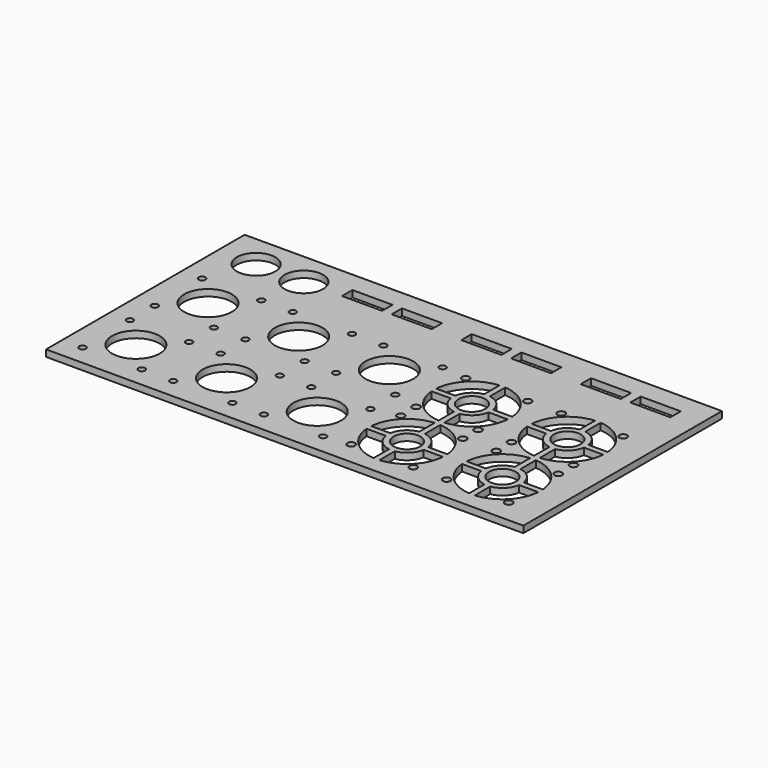
from build123d import *

# Parameters (mm, degrees)
SKETCH_W               = 250
SKETCH_H               = 130
PAD_DEPTH              = 3.5
SKETCH001_R            = 12.5
SKETCH001_R_2          = 1.75
POCKET_DEPTH           = 3.501
LINEARPATTERN_COUNT    = 3
LINEARPATTERN_PITCH    = 47.5
SKETCH002_R            = 2
POCKET001_DEPTH        = 3.501
POCKET002_DEPTH        = 3.501
LINEARPATTERN001_COUNT = 2
LINEARPATTERN001_PITCH = 42.5
SKETCH004_R            = 7
POCKET003_DEPTH        = 3.501
SKETCH005_R            = 10.1
POCKET004_DEPTH        = 3.501
SKETCH006_W            = 21
SKETCH006_H            = 6.8
POCKET005_DEPTH        = 3.501
LINEARPATTERN002_COUNT = 3
LINEARPATTERN002_PITCH = 62.5
SKETCH007_W            = 21
SKETCH007_H            = 3.5
PAD001_DEPTH           = 6
LINEARPATTERN003_COUNT = 3
LINEARPATTERN003_PITCH = 62.5
SKETCH008_R            = 1.6
POCKET006_DEPTH        = 5
LINEARPATTERN004_COUNT = 3
LINEARPATTERN004_PITCH = 62.5
SKETCH009_R            = 7
SKETCH009_R_2          = 2
POCKET007_DEPTH        = 9.501
LINEARPATTERN005_COUNT = 2
LINEARPATTERN005_PITCH = 42.5


with BuildPart() as part:
    # Sketch → Pad (new body)
    with BuildSketch(Plane.XY):
        with Locations((125, 65)):
            Rectangle(SKETCH_W, SKETCH_H)
    extrude(amount=PAD_DEPTH)

    # Sketch001 → Pocket (cut, through all)
    with BuildSketch(Plane.XY.offset(3.5)):
        with Locations((26.125, 73.375)):
            Circle(SKETCH001_R)
        with Locations((26.125, 26.125)):
            Circle(SKETCH001_R)
        with Locations((10.625, 88.875)):
            Circle(SKETCH001_R_2)
        with Locations((41.625, 88.875)):
            Circle(SKETCH001_R_2)
        with Locations((41.625, 57.875)):
            Circle(SKETCH001_R_2)
        with Locations((10.625, 57.875)):
            Circle(SKETCH001_R_2)
        with Locations((41.625, 41.625)):
            Circle(SKETCH001_R_2)
        with Locations((10.625, 41.625)):
            Circle(SKETCH001_R_2)
        with Locations((10.625, 10.625)):
            Circle(SKETCH001_R_2)
        with Locations((41.625, 10.625)):
            Circle(SKETCH001_R_2)
    pocket = extrude(amount=-POCKET_DEPTH, mode=Mode.SUBTRACT)

    # LinearPattern: Pocket ×3
    with Locations(*[(i * LINEARPATTERN_PITCH, 0, 0) for i in range(1, LINEARPATTERN_COUNT)]):
        add(pocket, mode=Mode.SUBTRACT)

    # Sketch002 → Pocket001 (cut, through all)
    with BuildSketch(Plane.XY.offset(3.5)):
        with Locations((150, 87.25)):
            Circle(SKETCH002_R)
        with Locations((150, 54.75)):
            Circle(SKETCH002_R)
        with Locations((182.5, 54.75)):
            Circle(SKETCH002_R)
        with Locations((182.5, 87.25)):
            Circle(SKETCH002_R)
        with Locations((150, 44.75)):
            Circle(SKETCH002_R)
        with Locations((182.5, 44.75)):
            Circle(SKETCH002_R)
        with Locations((182.5, 12.25)):
            Circle(SKETCH002_R)
        with Locations((150, 12.25)):
            Circle(SKETCH002_R)
    extrude(amount=-POCKET001_DEPTH, mode=Mode.SUBTRACT)

    # Sketch003 → Pocket002 (cut, through all)
    with BuildSketch(Plane.XY.offset(3.5)):
        with BuildLine():
            Line((167.750256, 51.056349), (167.750256, 61.113179))
            ThreePointArc((167.750256, 61.113179), (173.321159, 63.929024), (176.13686, 69.5))
            Line((176.13686, 69.5), (186.193671, 69.5))
            ThreePointArc((186.193671, 69.5), (180.392226, 56.857955), (167.750256, 51.056349))
        make_face()
        with BuildLine():
            Line((164.75, 80.88686), (164.75, 90.943671))
            ThreePointArc((164.75, 90.943671), (152.107864, 85.142136), (146.306329, 72.5))
            Line((146.306329, 72.5), (156.36314, 72.5))
            ThreePointArc((156.36314, 72.5), (159.178932, 78.071068), (164.75, 80.88686))
        make_face()
        with BuildLine():
            Line((167.750256, 90.943651), (167.750256, 80.886821))
            ThreePointArc((167.750256, 80.886821), (173.321159, 78.070976), (176.13686, 72.5))
            Line((176.13686, 72.5), (186.193671, 72.5))
            ThreePointArc((186.193671, 72.5), (180.392226, 85.142045), (167.750256, 90.943651))
        make_face()
        with BuildLine():
            Line((156.36314, 69.5), (146.306329, 69.5))
            ThreePointArc((146.306329, 69.5), (152.107864, 56.857864), (164.75, 51.056329))
            Line((164.75, 51.056329), (164.75, 61.11314))
            ThreePointArc((164.75, 61.11314), (159.178932, 63.928932), (156.36314, 69.5))
        make_face()
    pocket002 = extrude(amount=-POCKET002_DEPTH, mode=Mode.SUBTRACT)

    # LinearPattern001: Pocket002 ×2
    with Locations(*[(0, -i * LINEARPATTERN001_PITCH, 0) for i in range(1, LINEARPATTERN001_COUNT)]):
        add(pocket002, mode=Mode.SUBTRACT)

    # Sketch004 → Pocket003 (cut, through all)
    with BuildSketch(Plane.XY.offset(3.5)):
        with Locations((166.25, 71)):
            Circle(SKETCH004_R)
        with Locations((166.25, 28.5)):
            Circle(SKETCH004_R)
    extrude(amount=-POCKET003_DEPTH, mode=Mode.SUBTRACT)

    # Sketch005 → Pocket004 (cut, through all)
    with BuildSketch(Plane.XY.offset(3.5)):
        with Locations((20, 112.5)):
            Circle(SKETCH005_R)
        with Locations((45, 112.5)):
            Circle(SKETCH005_R)
    extrude(amount=-POCKET004_DEPTH, mode=Mode.SUBTRACT)

    # Sketch006 → Pocket005 (cut, through all)
    with BuildSketch(Plane.XY.offset(3.5)):
        with Locations((75.5, 115.9)):
            Rectangle(SKETCH006_W, SKETCH006_H)
        with Locations((101.5, 115.9)):
            Rectangle(SKETCH006_W, SKETCH006_H)
    pocket005 = extrude(amount=-POCKET005_DEPTH, mode=Mode.SUBTRACT)

    # LinearPattern002: Pocket005 ×3
    with Locations(*[(i * LINEARPATTERN002_PITCH, 0, 0) for i in range(1, LINEARPATTERN002_COUNT)]):
        add(pocket005, mode=Mode.SUBTRACT)

    # Sketch007 → Pad001 (new body)
    with BuildSketch(Plane(origin=(0, 0, 0), x_dir=(1, 0, 0), z_dir=(0, 0, -1))):
        with Locations((75.5, -110.75)):
            Rectangle(SKETCH007_W, SKETCH007_H)
        with Locations((101.5, -110.75)):
            Rectangle(SKETCH007_W, SKETCH007_H)
    pad001 = extrude(amount=PAD001_DEPTH)

    # LinearPattern003: Pad001 ×3
    with Locations(*[(i * LINEARPATTERN003_PITCH, 0, 0) for i in range(1, LINEARPATTERN003_COUNT)]):
        add(pad001)

    # Sketch008 → Pocket006 (cut)
    with BuildSketch(Plane(origin=(0, 112.5, 0), x_dir=(-1, 0, 0), z_dir=(0, 1, 0))):
        with Locations((-106.25, -3.25)):
            Circle(SKETCH008_R)
        with Locations((-96.75, -3.25)):
            Circle(SKETCH008_R)
        with Locations((-70.75, -3.25)):
            Circle(SKETCH008_R)
        with Locations((-80.25, -3.25)):
            Circle(SKETCH008_R)
    pocket006 = extrude(amount=-POCKET006_DEPTH, mode=Mode.SUBTRACT)

    # LinearPattern004: Pocket006 ×3
    with Locations(*[(i * LINEARPATTERN004_PITCH, 0, 0) for i in range(1, LINEARPATTERN004_COUNT)]):
        add(pocket006, mode=Mode.SUBTRACT)

    # Sketch009 → Pocket007 (cut, through all)
    with BuildSketch(Plane.XY.offset(3.5)):
        with Locations((216.25, 71)):
            Circle(SKETCH009_R)
        with Locations((200, 87.25)):
            Circle(SKETCH009_R_2)
        with Locations((232.5, 87.25)):
            Circle(SKETCH009_R_2)
        with Locations((232.5, 54.75)):
            Circle(SKETCH009_R_2)
        with Locations((200, 54.75)):
            Circle(SKETCH009_R_2)
        with BuildLine():
            ThreePointArc((206.36314, 69.5), (209.178643, 63.929222), (214.74919, 61.113263))
            Line((214.74919, 51.05639), (214.74919, 61.113263))
            ThreePointArc((196.306329, 69.5), (202.107577, 56.858152), (214.74919, 51.05639))
            Line((196.306329, 69.5), (206.36314, 69.5))
        make_face()
        with BuildLine():
            Line((217.75, 90.943671), (217.75, 80.88686))
            ThreePointArc((226.137245, 72.497462), (223.321975, 78.07016), (217.75, 80.88686))
            Line((226.137245, 72.497462), (236.193861, 72.497462))
            ThreePointArc((236.193861, 72.497462), (230.393036, 85.141236), (217.75, 90.943671))
        make_face()
        with BuildLine():
            Line((214.758572, 80.888157), (214.758572, 90.944314))
            ThreePointArc((214.758572, 90.944314), (202.111988, 85.146258), (196.306559, 72.503057))
            Line((206.363604, 72.503057), (196.306559, 72.503057))
            ThreePointArc((214.758572, 80.888157), (209.183092, 78.075225), (206.363604, 72.503057))
        make_face()
        with BuildLine():
            Line((217.75, 61.11314), (217.75, 51.056329))
            ThreePointArc((217.75, 51.056329), (230.392136, 56.857864), (236.193671, 69.5))
            Line((236.193671, 69.5), (226.13686, 69.5))
            ThreePointArc((217.75, 61.11314), (223.321068, 63.928932), (226.13686, 69.5))
        make_face()
    pocket007 = extrude(amount=-POCKET007_DEPTH, mode=Mode.SUBTRACT)

    # LinearPattern005: Pocket007 ×2
    with Locations(*[(0, -i * LINEARPATTERN005_PITCH, 0) for i in range(1, LINEARPATTERN005_COUNT)]):
        add(pocket007, mode=Mode.SUBTRACT)


solid = part.part
